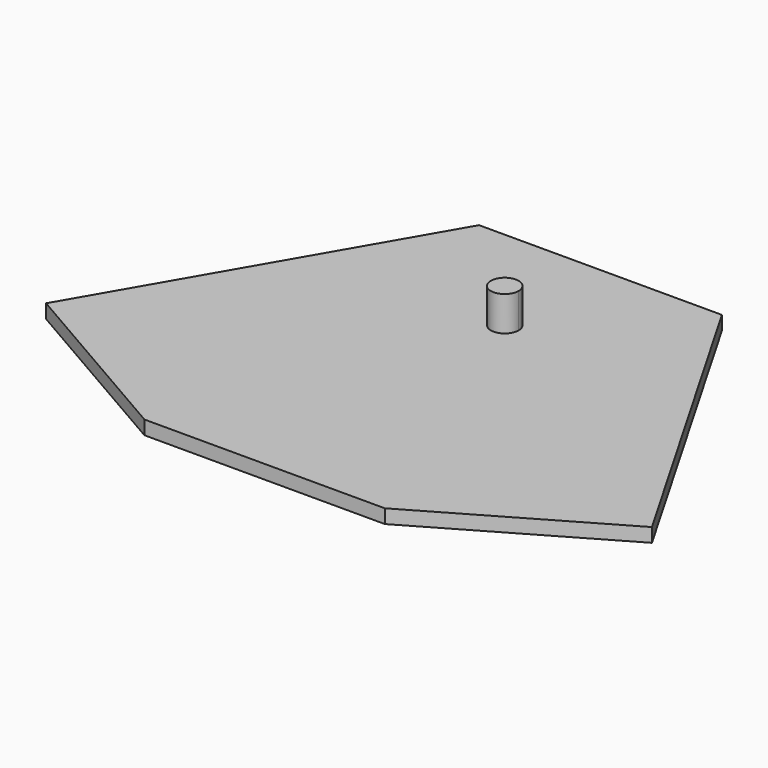
from build123d import *

# Parameters (mm, degrees)
F1_DEPTH = 4
F3_DEPTH = 10


with BuildPart() as f1:
    # F0 (on Top) → F1 (new body)
    with BuildSketch(Plane.XY):
        Polygon((35, 0), (0, 0), (-35, 0), (-87.304791, -90.594555), (-34.641016, -121), (34.641016, -121), (87.304791, -90.594555), align=None)
    extrude(amount=F1_DEPTH)

    # F2 (on face) → F3 (join)
    with BuildSketch(Plane.XY.offset(4)):
        with BuildLine():
            ThreePointArc((0, -30.5), (-2.828427, -37.328427), (4, -34.5))
            ThreePointArc((4, -34.5), (2.828427, -31.671573), (0, -30.5))
        make_face()
    extrude(amount=F3_DEPTH)


solid = f1.part
